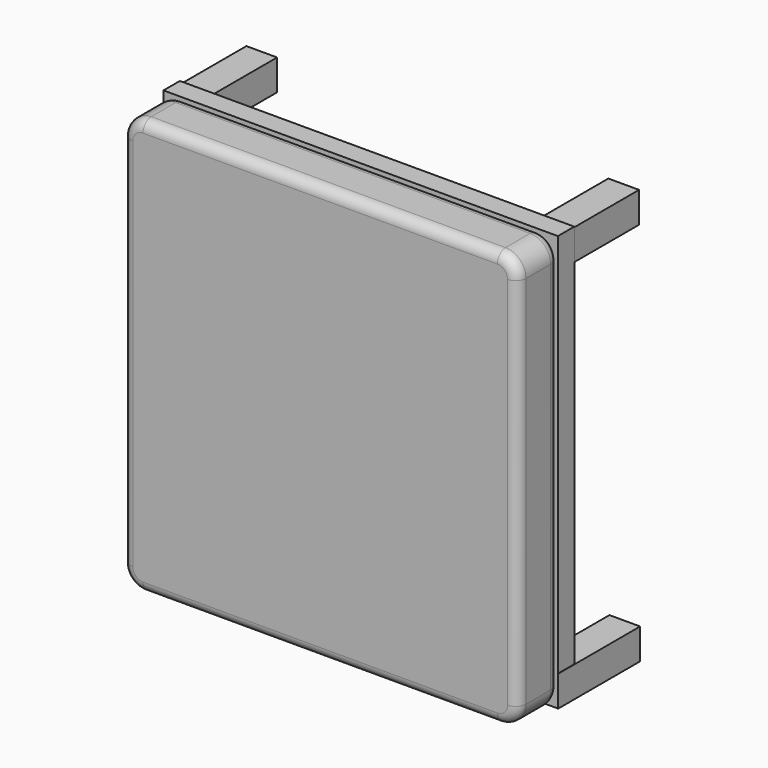
from build123d import *

# Parameters (mm, degrees)
SKETCH_W     = 1930
SKETCH_H     = 2030
PAD_DEPTH    = 250
FILLET_R     = 100
FILLET001_R  = 50
SKETCH001_W  = 1925.700439
SKETCH001_H  = 2029.334473
PAD001_DEPTH = 100
SKETCH002_W  = 150
SKETCH002_H  = 150
PAD002_DEPTH = 500
SKETCH003_W  = 150
SKETCH003_H  = 150
PAD003_DEPTH = 500
SKETCH004_W  = 150
SKETCH004_H  = 150
PAD004_DEPTH = 500
SKETCH005_W  = 150
SKETCH005_H  = 150
PAD005_DEPTH = 500


with BuildPart() as body:
    # Sketch → Pad (new body)
    with BuildSketch(Plane.XZ):
        with Locations((965, 1015)):
            Rectangle(SKETCH_W, SKETCH_H)
    extrude(amount=PAD_DEPTH)

    # Fillet
    fillet_edges = [body.edges().sort_by_distance(p)[0] for p in [
        (0, -125, 2030),
        (1930, -125, 2030),
        (1930, -125, 0),
        (0, -125, 0),
    ]]
    fillet(fillet_edges, radius=FILLET_R)

    # Fillet001
    fillet001_edges = [body.edges().sort_by_distance(p)[0] for p in [
        (0, -250, 1015),
        (29.289322, -250, 29.289322),
        (965, -250, 0),
        (1900.710678, -250, 29.289322),
        (1930, -250, 1015),
        (1900.710678, -250, 2000.710678),
        (965, -250, 2030),
        (29.289322, -250, 2000.710678),
        (0, 0, 1015),
        (29.289322, 0, 2000.710678),
        (965, 0, 2030),
        (1900.710678, 0, 2000.710678),
        (1930, 0, 1015),
        (1900.710678, 0, 29.289322),
        (965, 0, 0),
        (29.289322, 0, 29.289322),
    ]]
    fillet(fillet001_edges, radius=FILLET001_R)


with BuildPart() as body001:
    # Sketch001 → Pad001 (new body)
    with BuildSketch(Plane.XZ):
        with Locations((962.850219, 1014.667236)):
            Rectangle(SKETCH001_W, SKETCH001_H)
    extrude(amount=-PAD001_DEPTH)

    # Sketch002 → Pad002 (join)
    with BuildSketch(Plane.XZ):
        with Locations((75, 75)):
            Rectangle(SKETCH002_W, SKETCH002_H)
    extrude(amount=-PAD002_DEPTH)

    # Sketch003 → Pad003 (join)
    with BuildSketch(Plane.XZ):
        with Locations((1852.314697, 73.679027)):
            Rectangle(SKETCH003_W, SKETCH003_H)
    extrude(amount=-PAD003_DEPTH)

    # Sketch004 → Pad004 (join)
    with BuildSketch(Plane.XZ):
        with Locations((79.754996, 1943.130493)):
            Rectangle(SKETCH004_W, SKETCH004_H)
    extrude(amount=-PAD004_DEPTH)

    # Sketch005 → Pad005 (join)
    with BuildSketch(Plane.XZ):
        with Locations((1847.088867, 1948.594971)):
            Rectangle(SKETCH005_W, SKETCH005_H)
    extrude(amount=-PAD005_DEPTH)


solid = Compound([body.part, body001.part])
